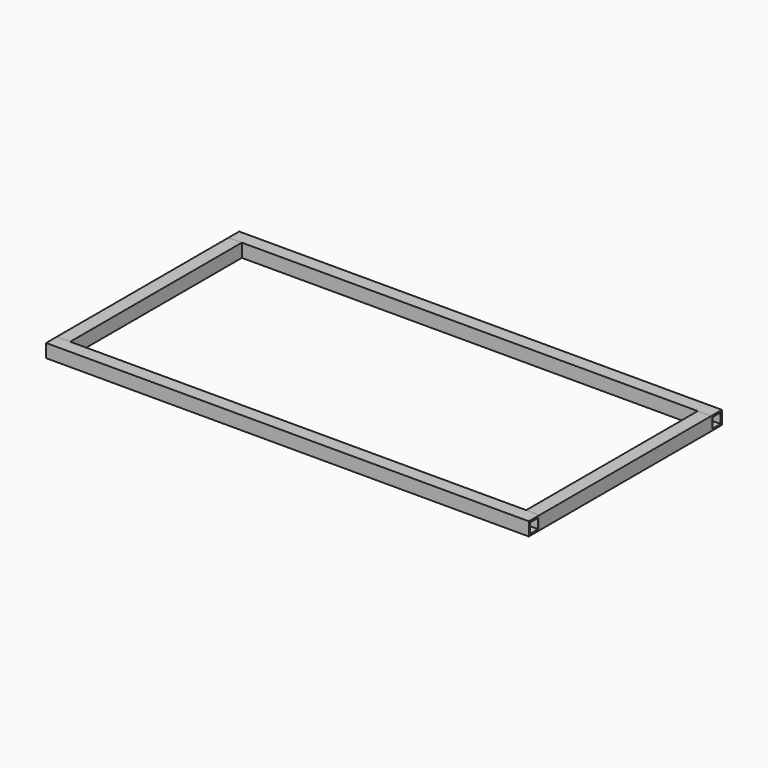
from build123d import *

# Parameters (mm, degrees)
F0_W     = 50.8
F0_H     = 50.8
F0_W_2   = 38.1
F0_H_2   = 38.1
F1_DEPTH = 812.8
F2_W     = 50.8
F2_H     = 50.8
F2_W_2   = 38.1
F2_H_2   = 38.1
F3_DEPTH = 1828.8


with BuildPart() as f1:
    # F0 (on Front) → F1 (new body)
    with BuildSketch(Plane.XZ):
        Rectangle(F0_W, F0_H)
        Rectangle(F0_W_2, F0_H_2, mode=Mode.SUBTRACT)
    extrude(amount=F1_DEPTH)


with BuildPart() as f3:
    # F2 (on Right) → F3 (new body)
    with BuildSketch(Plane.YZ):
        with Locations((50.8, 0)):
            Rectangle(F2_W, F2_H)
        with Locations((50.8, 0)):
            Rectangle(F2_W_2, F2_H_2, mode=Mode.SUBTRACT)
    extrude(amount=F3_DEPTH)


with BuildPart() as f3_1:
    # F4: moved
    add(f3.part.moved(Location((0, -25.4, 0))))


with BuildPart() as f3_2:
    # F5: moved
    add(f3_1.part.moved(Location((-25.4, 0, 0))))


with BuildPart() as f6_1:
    # F6: copy of F3
    add(f3_2.part.moved(Location((0, -863.6, 0))))


with BuildPart() as f7_1:
    # F7: copy of F1
    add(f1.part.moved(Location((1778, 0, 0))))


solid = Compound([f1.part, f3_2.part, f6_1.part, f7_1.part])
